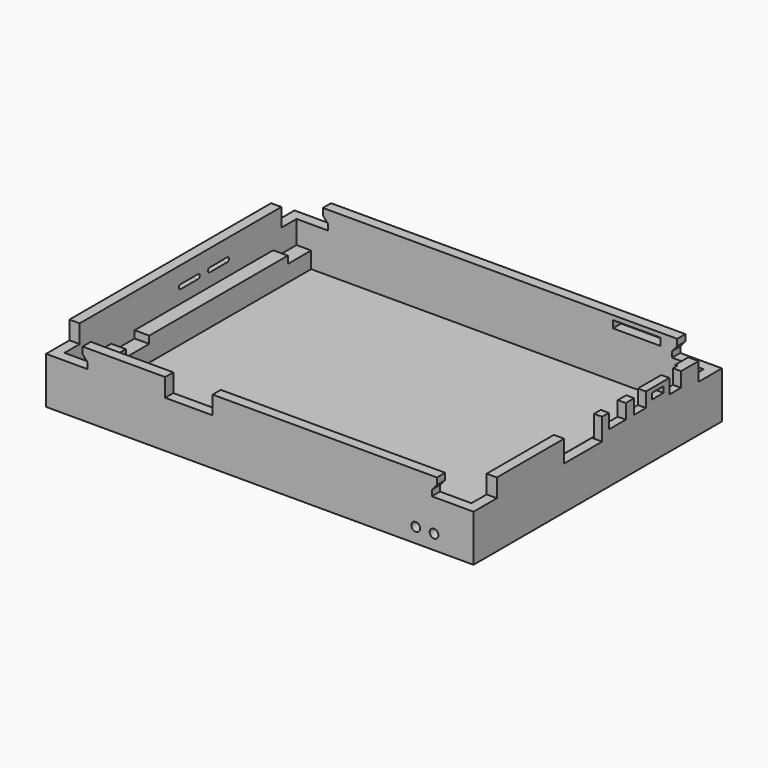
from build123d import *

# Parameters (mm, degrees)
SKETCH021_W     = 117
SKETCH021_H     = 85
PAD012_DEPTH    = 17.8
SKETCH025_W     = 111.4
SKETCH025_H     = 79.4
POCKET003_DEPTH = 15.8
SKETCH026_W     = 4
SKETCH026_H     = 79.4
PAD014_DEPTH    = 6.5
SKETCH027_W     = 4
SKETCH027_H     = 8
POCKET004_DEPTH = 2
SKETCH028_W     = 13
SKETCH028_H     = 6
SKETCH028_W_2   = 5.8
SKETCH028_H_2   = 4
SKETCH028_W_3   = 4
SKETCH028_H_3   = 1.6
POCKET005_DEPTH = 2.8
SKETCH029_W     = 0.6
SKETCH029_H     = 28.3
POCKET006_DEPTH = 7.8
SKETCH030_W     = 13
SKETCH030_H     = 2
POCKET007_DEPTH = 2.8
SKETCH032_R     = 1.2
POCKET009_DEPTH = 2.8
SKETCH037_W     = 10
SKETCH037_H     = 8
POCKET012_DEPTH = 5
POCKET015_DEPTH = 85.001
SKETCH056_W     = 1
SKETCH056_H     = 47.4
SKETCH056_H_2   = 16
PAD026_DEPTH    = 1.5
SKETCH057_W     = 0.6
SKETCH057_H     = 0.3
POCKET019_DEPTH = 7.8
POCKET020_DEPTH = 2.8
SKETCH059_W     = 13
SKETCH059_H     = 5
POCKET021_DEPTH = 2.8


with BuildPart() as part:
    # Sketch021 → Pad012 (new body)
    with BuildSketch(Plane.XY):
        with Locations((0.5, -8)):
            Rectangle(SKETCH021_W, SKETCH021_H)
    extrude(amount=PAD012_DEPTH)

    # Sketch025 (on Face6 of Pad012) → Pocket003 (cut)
    with BuildSketch(Plane.XY.offset(17.8)):
        with Locations((0.5, -8)):
            Rectangle(SKETCH025_W, SKETCH025_H)
    extrude(amount=-POCKET003_DEPTH, mode=Mode.SUBTRACT)

    # Sketch026 (on Face11 of Pocket003) → Pad014 (join)
    with BuildSketch(Plane.XY.offset(2)):
        with Locations((-53.2, -8)):
            Rectangle(SKETCH026_W, SKETCH026_H)
        with Locations((54.2, -8)):
            Rectangle(SKETCH026_W, SKETCH026_H)
    extrude(amount=PAD014_DEPTH)

    # Sketch027 (on Face15 of Pad014) → Pocket004 (cut)
    with BuildSketch(Plane.XY.offset(8.5)):
        with Locations((-53.2, 27.7)):
            Rectangle(SKETCH027_W, SKETCH027_H)
        with Locations((54.2, 27.7)):
            Rectangle(SKETCH027_W, SKETCH027_H)
        with Locations((-53.2, -27.7)):
            Rectangle(SKETCH027_W, SKETCH027_H)
        with Locations((54.2, -27.7)):
            Rectangle(SKETCH027_W, SKETCH027_H)
    extrude(amount=-POCKET004_DEPTH, mode=Mode.SUBTRACT)

    # Sketch028 (on Face3 of Pocket004) → Pocket005 (cut)
    with BuildSketch(Plane.YZ.offset(59)):
        with Locations((-13, 14.8)):
            Rectangle(SKETCH028_W, SKETCH028_H)
        with Locations((-1.3, 15.8)):
            Rectangle(SKETCH028_W_2, SKETCH028_H_2)
        with Locations((6.5, 15.8)):
            Rectangle(SKETCH028_W_3, SKETCH028_H_2)
        with Locations((18.5, 15.8)):
            Rectangle(SKETCH028_W_3, SKETCH028_H_2)
        with Locations((12.5, 15.8)):
            Rectangle(SKETCH028_W_3, SKETCH028_H_3)
    extrude(amount=-POCKET005_DEPTH, mode=Mode.SUBTRACT)

    # Sketch029 (on Face18 of Pocket005) → Pocket006 (cut)
    with BuildSketch(Plane.XY.offset(17.8)):
        with Locations((56.5, 7.95)):
            Rectangle(SKETCH029_W, SKETCH029_H)
    extrude(amount=-POCKET006_DEPTH, mode=Mode.SUBTRACT)

    # Sketch030 (on Face1 of Pocket006) → Pocket007 (cut)
    with BuildSketch(Plane(origin=(0, 34.5, 0), x_dir=(-1, 0, 0), z_dir=(0, 1, 0))):
        with Locations((-37.9, 15.6)):
            Rectangle(SKETCH030_W, SKETCH030_H)
    extrude(amount=-POCKET007_DEPTH, mode=Mode.SUBTRACT)

    # Sketch032 (on Face13 of Pocket007) → Pocket009 (cut)
    with BuildSketch(Plane(origin=(0, -47.7, 0), x_dir=(-1, 0, 0), z_dir=(0, 1, 0))):
        with Locations((-48.2, 4)):
            Circle(SKETCH032_R)
        with Locations((-43.2, 4)):
            Circle(SKETCH032_R)
    extrude(amount=-POCKET009_DEPTH, mode=Mode.SUBTRACT)

    # Sketch037 (on Face4 of Pocket009) → Pocket012 (cut)
    with BuildSketch(Plane.XY.offset(17.8)):
        with Locations((-53, 30.5)):
            Rectangle(SKETCH037_W, SKETCH037_H)
        with Locations((54, 30.5)):
            Rectangle(SKETCH037_W, SKETCH037_H)
        with Locations((-53, -46.5)):
            Rectangle(SKETCH037_W, SKETCH037_H)
        with Locations((54, -46.5)):
            Rectangle(SKETCH037_W, SKETCH037_H)
    extrude(amount=-POCKET012_DEPTH, mode=Mode.SUBTRACT)

    # Sketch043 (on Face14 of Pocket012) → Pocket015 (cut, through all)
    with BuildSketch(Plane.XZ.offset(50.5)):
        Polygon((-48, 12.8), (-46.6, 12.8), (-46.6, 14.4), (-48, 16), align=None)
        Polygon((49, 12.8), (47.6, 12.8), (47.6, 14.4), (49, 16), align=None)
    extrude(amount=-POCKET015_DEPTH, mode=Mode.SUBTRACT)

    # Sketch056 (on Face70 of Pocket015) → Pad026 (join)
    with BuildSketch(Plane.XY.offset(8.5)):
        with Locations((55.7, 0)):
            Rectangle(SKETCH056_W, SKETCH056_H)
        with Locations((55.7, -39.7)):
            Rectangle(SKETCH056_W, SKETCH056_H_2)
    extrude(amount=PAD026_DEPTH)

    # Sketch057 (on Face27 of Pad026) → Pocket019 (cut)
    with BuildSketch(Plane.XY.offset(17.8)):
        with Locations((56.5, -6.35)):
            Rectangle(SKETCH057_W, SKETCH057_H)
    extrude(amount=-POCKET019_DEPTH, mode=Mode.SUBTRACT)

    # Sketch058 (on Face15 of Pocket019) → Pocket020 (cut)
    with BuildSketch(Plane(origin=(-58, 0, 0), x_dir=(0, -1, 0), z_dir=(-1, 0, 0))):
        with BuildLine():
            ThreePointArc((-8, 13.2), (-8.6, 12.6), (-8, 12))
            Line((-8, 12), (-2, 12))
            ThreePointArc((-2, 12), (-1.4, 12.6), (-2, 13.2))
            Line((-8, 13.2), (-2, 13.2))
        make_face()
        with BuildLine():
            ThreePointArc((2, 13.2), (1.4, 12.6), (2, 12))
            Line((2, 12), (8, 12))
            ThreePointArc((8, 12), (8.6, 12.6), (8, 13.2))
            Line((2, 13.2), (8, 13.2))
        make_face()
    extrude(amount=-POCKET020_DEPTH, mode=Mode.SUBTRACT)

    # Sketch059 (on Face20 of Pocket020) → Pocket021 (cut)
    with BuildSketch(Plane.XZ.offset(50.5)):
        with Locations((-18.9, 15.3)):
            Rectangle(SKETCH059_W, SKETCH059_H)
    extrude(amount=-POCKET021_DEPTH, mode=Mode.SUBTRACT)


solid = part.part
